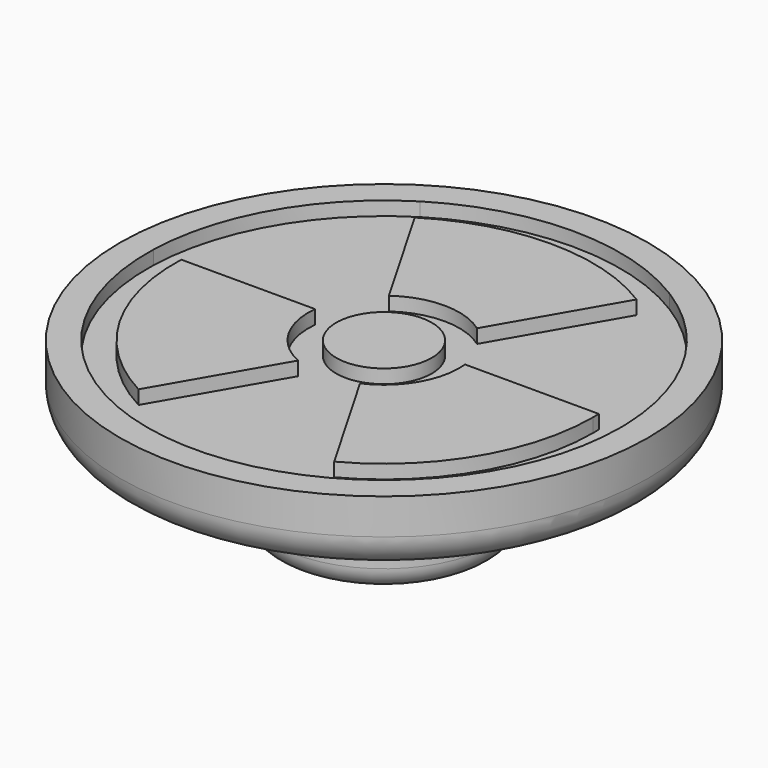
from build123d import *

# Parameters (mm, degrees)
F0_R     = 9.5631
F1_DEPTH = 2.5
F2_R     = 1.729466
F3_DEPTH = 0.5
F4_R     = 4
F5_DEPTH = 3.5
F6_R     = 1.207107
F7_R     = 2
F8_DEPTH = 3
F9_R     = 0.79669


with BuildPart() as f1:
    # F0 (on Top) → F1 (new body)
    with BuildSketch(Plane.XY):
        Circle(F0_R)
    extrude(amount=F1_DEPTH)

    # F2 (on face) → F3 (cut)
    with BuildSketch(Plane.XY.offset(2.5)):
        with BuildLine():
            ThreePointArc((-4.01538, 6.40915), (0, 7.5631), (4.01538, 6.40915))
            Line((4.01538, 6.40915), (4.515668, 7.275673))
            ThreePointArc((4.515668, 7.275673), (0, 8.5631), (-4.515668, 7.275673))
            Line((-4.515668, 7.275673), (-4.01538, 6.40915))
        make_face()
        with BuildLine():
            Line((4.515668, 7.275673), (4.01538, 6.40915))
            ThreePointArc((4.01538, 6.40915), (6.549837, 3.78155), (7.558177, 0.272846))
            Line((7.558177, 0.272846), (8.558752, 0.272846))
            ThreePointArc((8.558752, 0.272846), (7.415862, 4.28155), (4.515668, 7.275673))
        make_face()
        with BuildLine():
            ThreePointArc((-7.558177, 0.272846), (-6.549837, 3.78155), (-4.01538, 6.40915))
            Line((-4.01538, 6.40915), (-4.515668, 7.275673))
            ThreePointArc((-4.515668, 7.275673), (-7.415862, 4.28155), (-8.558752, 0.272846))
            Line((-8.558752, 0.272846), (-7.558177, 0.272846))
        make_face()
        with BuildLine():
            Line((8.558752, 0.272846), (7.558177, 0.272846))
            ThreePointArc((7.558177, 0.272846), (7.561869, 0.136445), (7.5631, 0))
            ThreePointArc((7.5631, 0), (6.480548, -3.8991), (3.542796, -6.681996))
            Line((3.542796, -6.681996), (4.043084, -7.54852))
            ThreePointArc((4.043084, -7.54852), (7.3467, -4.399167), (8.5631, 0))
            ThreePointArc((8.5631, 0), (8.562013, 0.136441), (8.558752, 0.272846))
        make_face()
        with BuildLine():
            ThreePointArc((-3.542796, -6.681996), (-6.549837, -3.78155), (-7.558177, 0.272846))
            Line((-7.558177, 0.272846), (-8.558752, 0.272846))
            ThreePointArc((-8.558752, 0.272846), (-7.415862, -4.28155), (-4.043084, -7.54852))
            Line((-4.043084, -7.54852), (-3.542796, -6.681996))
        make_face()
        with BuildLine():
            ThreePointArc((3.542796, -6.681996), (0, -7.5631), (-3.542796, -6.681996))
            Line((-3.542796, -6.681996), (-4.043084, -7.54852))
            ThreePointArc((-4.043084, -7.54852), (0, -8.5631), (4.043084, -7.54852))
            Line((4.043084, -7.54852), (3.542796, -6.681996))
        make_face()
        with BuildLine():
            Line((4.01538, 6.40915), (1.594189, 2.215524))
            ThreePointArc((1.594189, 2.215524), (0, 2.729466), (-1.594189, 2.215524))
            Line((-1.594189, 2.215524), (-4.01538, 6.40915))
            ThreePointArc((-4.01538, 6.40915), (-6.549837, 3.78155), (-7.558177, 0.272846))
            Line((-7.558177, 0.272846), (-2.715795, 0.272846))
            ThreePointArc((-2.715795, 0.272846), (-2.363787, -1.364733), (-1.121605, -2.48837))
            Line((-1.121605, -2.48837), (-3.542796, -6.681996))
            ThreePointArc((-3.542796, -6.681996), (0, -7.5631), (3.542796, -6.681996))
            Line((3.542796, -6.681996), (1.121605, -2.48837))
            ThreePointArc((1.121605, -2.48837), (2.363787, -1.364733), (2.715795, 0.272846))
            Line((2.715795, 0.272846), (7.558177, 0.272846))
            ThreePointArc((7.558177, 0.272846), (6.549837, 3.78155), (4.01538, 6.40915))
        make_face()
        Circle(F2_R, mode=Mode.SUBTRACT)
    extrude(amount=-F3_DEPTH, mode=Mode.SUBTRACT)

    # F4 (on face) → F5 (join)
    with BuildSketch(Plane(origin=(0, 0, 0), x_dir=(1, 0, 0), z_dir=(0, 0, -1))):
        Circle(F4_R)
    extrude(amount=F5_DEPTH)

    # F6
    f6_edges = [f1.edges().sort_by_distance(p)[0] for p in [
        (-9.5631, 0, 0),
    ]]
    fillet(f6_edges, radius=F6_R)

    # F7 (on face) → F8 (cut)
    with BuildSketch(Plane(origin=(0, 0, -3.5), x_dir=(1, 0, 0), z_dir=(0, 0, -1))):
        Circle(F7_R)
    extrude(amount=-F8_DEPTH, mode=Mode.SUBTRACT)

    # F9
    f9_edges = [f1.edges().sort_by_distance(p)[0] for p in [
        (-4, 0, -3.5),
    ]]
    fillet(f9_edges, radius=F9_R)


solid = f1.part
